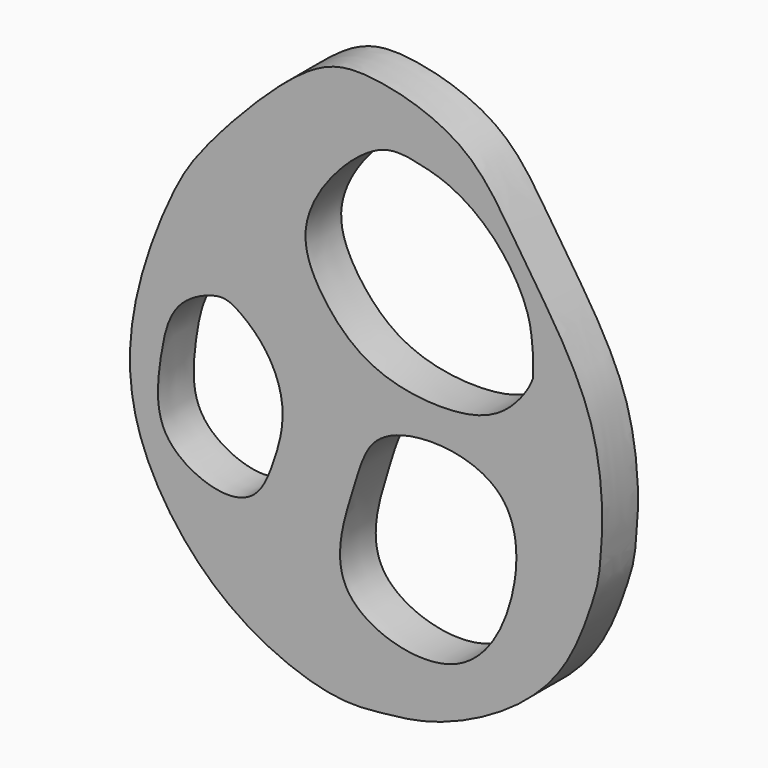
from build123d import *

# Parameters (mm, degrees)
F1_DEPTH = 5.9
F3_DEPTH = 25
F5_DEPTH = 25
F7_DEPTH = 25


with BuildPart() as f1:
    # F0 (on Front) → F1 (new body)
    with BuildSketch(Plane.XZ):
        with BuildLine():
            add(Edge.make_bspline(
                [(-52.1014146507, 58.7876960635), (-54.2442908005, 56.1929689953), (-56.6862554596, 52.3979406272), (-62.2893055473, 38.6968171199), (-63.447920292, 22.0937139273), (-51.2608724238, 5.1036667476), (-36.0198643591, -0.7161903744), (-29.2641067986, -0.0053596476), (-22.70302903, 0.669282382), (-13.2074172071, 4.7357655846), (-4.408449157, 12.359986036), (-1.2262155166, 22.1686827448), (-0.5773984772, 24.2881119646), (-0.2512541332, 26.5841420302), (-0.1958595852, 28.3451681559), (0.1545968332, 30.9690962846), (-0.2160147101, 44.6000414993), (-10.9651699558, 59.301264633), (-17.2978744539, 70.4346300063), (-30.9236037174, 74.3207093361), (-39.3086922898, 72.894812691), (-48.8700291359, 62.7004576406), (-52.1014146507, 58.7876960635)],
                knots=[0, 0, 0, 0, 0.0460145405, 0.106337451, 0.171674912, 0.2440474788, 0.3077812225, 0.3487164541, 0.3893019572, 0.4408159402, 0.4969294108, 0.5472481961, 0.5711774271, 0.5949991596, 0.6158890698, 0.6408877142, 0.698619757, 0.7685270172, 0.8261119106, 0.8836331476, 0.930611613, 1, 1, 1, 1], degree=3))
        make_face()
    extrude(amount=F1_DEPTH)

    # F2 (on face) → F3 (cut)
    with BuildSketch(Plane.XZ.offset(5.9)):
        with BuildLine():
            add(Edge.make_bspline(
                [(-25.6113670766, 65.8383443952), (-23.8962992967, 65.499716372), (-22.1812315167, 65.1610883488), (-20.4146970063, 64.4047856331)],
                knots=[0, 0, 0, 0, 0.2175998022, 0.2175998022, 0.2175998022, 0.2175998022], degree=3))
            add(Edge.make_bspline(
                [(-25.6113670766, 65.8383443952), (-26.9224153467, 66.0118016365), (-29.6768867649, 66.0385156694), (-35.9887130292, 60.934516911), (-40.5022501865, 52.8415296036), (-37.2279445486, 45.5554263024), (-30.7742024254, 39.026913525), (-20.0423820615, 37.642378954), (-12.7257275827, 39.6124917323), (-9.5471492047, 44.1363396608), (-9.1253789142, 45.5892495811)],
                knots=[0, 0, 0, 0, 0.0579298808, 0.1411231585, 0.2292127407, 0.3091641069, 0.3979947379, 0.4939670747, 0.5757851375, 0.6504216373, 0.6504216373, 0.6504216373, 0.6504216373], degree=3))
            add(Edge.make_bspline(
                [(-9.162946625, 48.4157798694), (-9.1201670876, 47.4730411283), (-9.1227730009, 46.5311453547), (-9.1253789142, 45.5892495811)],
                knots=[0.9006487511, 0.9006487511, 0.9006487511, 0.9006487511, 1, 1, 1, 1], degree=3))
            add(Edge.make_bspline(
                [(-9.162946625, 48.4157798694), (-9.2691801205, 49.5936717728), (-9.3421253992, 51.1156596141), (-9.8434807995, 52.7614074954), (-9.8441417686, 52.7635749675)],
                knots=[0.7039895436, 0.7039895436, 0.7039895436, 0.7039895436, 0.7619931182, 0.7620696029, 0.7620696029, 0.7620696029, 0.7620696029], degree=3))
            add(Edge.make_bspline(
                [(-9.8441417686, 52.7635749675), (-10.598988464, 55.2388936708), (-12.322197814, 57.9933220152), (-14.3220489537, 60.104090688)],
                knots=[0.7620696029, 0.7620696029, 0.7620696029, 0.7620696029, 0.8494174062, 0.8494174062, 0.8494174062, 0.8494174062], degree=3))
            add(Edge.make_bspline(
                [(-18.6983452168, 63.5457059426), (-17.1807583986, 62.6755163534), (-15.6767974013, 61.5153749257), (-14.3220489845, 60.1040907204)],
                knots=[0.2877134414, 0.2877134414, 0.2877134414, 0.2877134414, 0.4735370117, 0.4735370117, 0.4735370117, 0.4735370117], degree=3))
            add(Edge.make_bspline(
                [(-18.6983452168, 63.5457059426), (-19.2659594379, 63.8683608033), (-19.8395161558, 64.1542125797), (-20.414696972, 64.4047856181)],
                knots=[0.908782562, 0.908782562, 0.908782562, 0.908782562, 0.9308042628, 0.9308042628, 0.9308042628, 0.9308042628], degree=3))
        make_face()
    extrude(amount=-F3_DEPTH, mode=Mode.SUBTRACT)

    # F4 (on face) → F5 (cut)
    with BuildSketch(Plane.XZ.offset(5.9)):
        with BuildLine():
            add(Edge.make_bspline(
                [(-50.8779399097, 41.4677560329), (-49.9473469848, 41.5923582464), (-48.4238446078, 41.0969027396), (-44.0436915129, 37.5203836221), (-41.5166740922, 31.097399344), (-43.3691124707, 24.5232161189), (-45.5252390656, 19.3877487895), (-50.8733899624, 18.0826696883), (-59.4205583057, 22.4435539606), (-58.5655686628, 31.8392897342), (-57.0189507493, 39.2144813863), (-52.3138500245, 41.2754941171), (-50.8779399097, 41.4677560329)],
                knots=[0, 0, 0, 0, 0.0633575162, 0.1579389774, 0.2639274596, 0.3703692134, 0.4632185436, 0.5528195565, 0.6701991399, 0.790582091, 0.9022389963, 1, 1, 1, 1], degree=3))
        make_face()
    extrude(amount=-F5_DEPTH, mode=Mode.SUBTRACT)

    # F6 (on face) → F7 (cut)
    with BuildSketch(Plane.XZ.offset(5.9)):
        with BuildLine():
            add(Edge.make_bspline(
                [(-32.9005867243, 24.9727349728), (-31.99530968, 27.8999040123), (-30.7981719764, 32.4646600732), (-21.6895658941, 34.5766905788), (-11.1578539022, 31.2558330837), (-10.8280397755, 18.4374362289), (-18.4279373234, 5.3406327311), (-37.6090101355, 10.9121854411), (-34.0677717229, 21.1986993745), (-32.9005867243, 24.9727349728)],
                knots=[0, 0, 0, 0, 0.1183916019, 0.2436649387, 0.3782711625, 0.5243019283, 0.6829883627, 0.8473562291, 1, 1, 1, 1], degree=3))
        make_face()
    extrude(amount=-F7_DEPTH, mode=Mode.SUBTRACT)


solid = f1.part
